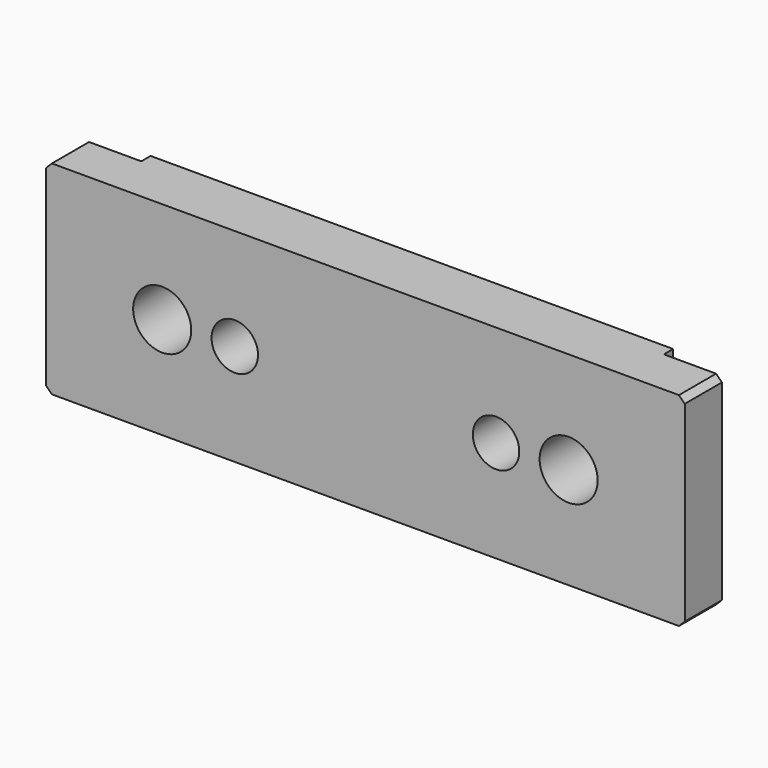
from build123d import *

# Parameters (mm, degrees)
F0_W     = 10
F0_H     = 35.0110880776
F0_W_2   = 90
F0_R     = 5
F1_DEPTH = 8
F2_DEPTH = 10
F3_SIZE  = 1
F4_R     = 0.2


with BuildPart() as f1:
    # F0 (on Front) → F1 (new body)
    with BuildSketch(Plane.XZ):
        with Locations((-50, 0)):
            Rectangle(F0_W, F0_H)
        Rectangle(F0_W_2, F0_H)
        with Locations((-35, 0)):
            Circle(F0_R, mode=Mode.SUBTRACT)
        with BuildLine():
            ThreePointArc((-26.5, 0), (-22.5, 4), (-18.5, 0))
            ThreePointArc((-18.5, 0), (-22.5, -4), (-26.5, 0))
        make_face(mode=Mode.SUBTRACT)
        with BuildLine():
            ThreePointArc((26.5, 0), (22.5, -4), (18.5, 0))
            ThreePointArc((18.5, 0), (22.5, 4), (26.5, 0))
        make_face(mode=Mode.SUBTRACT)
        with BuildLine():
            ThreePointArc((40, 0), (35, -5), (30, 0))
            ThreePointArc((30, 0), (35, 5), (40, 0))
        make_face(mode=Mode.SUBTRACT)
        with Locations((50, 0)):
            Rectangle(F0_W, F0_H)
    extrude(amount=-F1_DEPTH)

    # F0 (on Front) → F2 (join)
    with BuildSketch(Plane.XZ):
        Rectangle(F0_W_2, F0_H)
        with Locations((-35, 0)):
            Circle(F0_R, mode=Mode.SUBTRACT)
        with BuildLine():
            ThreePointArc((-26.5, 0), (-22.5, 4), (-18.5, 0))
            ThreePointArc((-18.5, 0), (-22.5, -4), (-26.5, 0))
        make_face(mode=Mode.SUBTRACT)
        with BuildLine():
            ThreePointArc((26.5, 0), (22.5, -4), (18.5, 0))
            ThreePointArc((18.5, 0), (22.5, 4), (26.5, 0))
        make_face(mode=Mode.SUBTRACT)
        with BuildLine():
            ThreePointArc((40, 0), (35, -5), (30, 0))
            ThreePointArc((30, 0), (35, 5), (40, 0))
        make_face(mode=Mode.SUBTRACT)
    extrude(amount=-F2_DEPTH)

    # F3
    f3_edges = [f1.edges().sort_by_distance(p)[0] for p in [
        (55, 4, -17.505544),
        (55, 4, 17.505544),
        (-55, 4, -17.505544),
        (-55, 4, 17.505544),
    ]]
    chamfer(f3_edges, length=F3_SIZE)

    # F4
    f4_edges = [f1.edges().sort_by_distance(p)[0] for p in [
        (45, 8, 0),
        (-45, 8, 0),
    ]]
    fillet(f4_edges, radius=F4_R)


solid = f1.part
